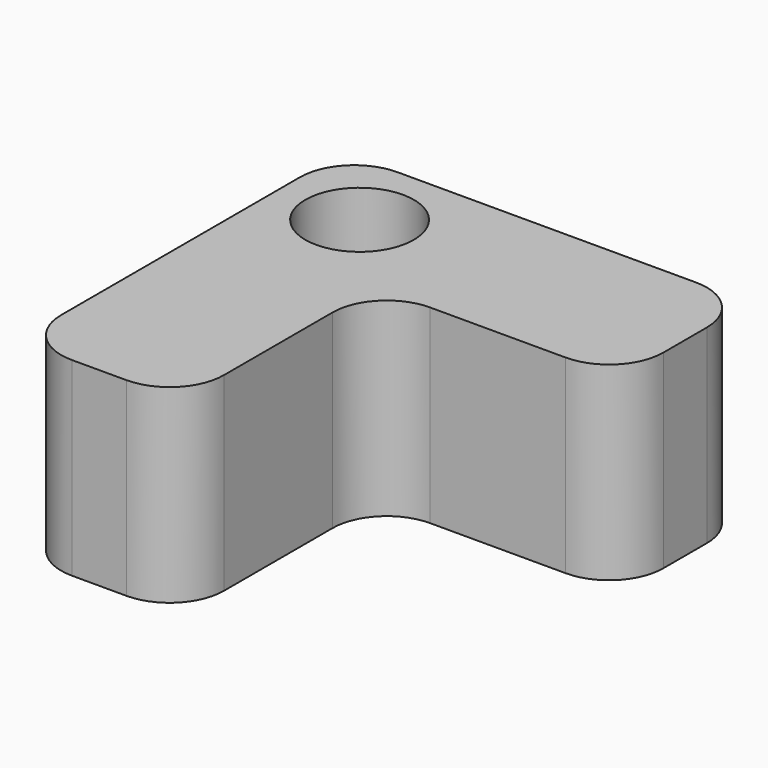
from build123d import *

# Parameters (mm, degrees)
F1_DEPTH = 7
F3_D     = 4
F4_R     = 2


with BuildPart() as f1:
    # F0 (on Top) → F1 (new body)
    with BuildSketch(Plane.XY):
        with BuildLine():
            Line((0, 0), (0, -15))
            Line((0, -15), (6, -15))
            Line((6, -15), (6, -8))
            ThreePointArc((6, -8), (6.585786, -6.585786), (8, -6))
            Line((8, -6), (15, -6))
            Line((15, -6), (15, 0))
            Line((15, 0), (0, 0))
        make_face()
    extrude(amount=F1_DEPTH)

    # F3 (through all)
    with Locations(Plane.XY.offset(7)):
        with Locations((3, -3)):
            Hole(F3_D / 2)

    # F4
    f4_edges = [f1.edges().sort_by_distance(p)[0] for p in [
        (0, 0, 3.5),
        (0, -15, 3.5),
        (6, -15, 3.5),
        (15, -6, 3.5),
        (15, 0, 3.5),
    ]]
    fillet(f4_edges, radius=F4_R)


solid = f1.part
